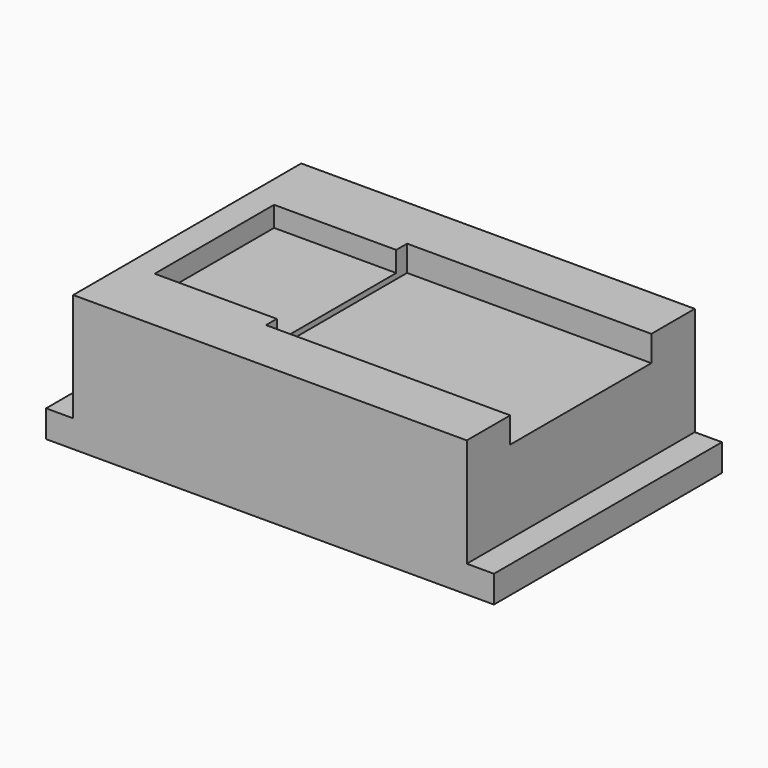
from build123d import *

# Parameters (mm, degrees)
BOX_W           = 33
BOX_H           = 21
BOX_DEPTH       = 10
SKETCH_W        = 2
SKETCH_H        = 21
POCKET_DEPTH    = 8
SKETCH001_W     = 9
SKETCH001_H     = 11
POCKET001_DEPTH = 1.5
SKETCH002_W     = 18
SKETCH002_H     = 13
POCKET002_DEPTH = 1.9


with BuildPart() as part:
    # Box → Box (new body)
    with BuildSketch(Plane.XY):
        with Locations((16.5, 10.5)):
            Rectangle(BOX_W, BOX_H)
    extrude(amount=BOX_DEPTH)

    # Sketch → Pocket (cut)
    with BuildSketch(Plane.XY.offset(10)):
        with Locations((1, 10.5)):
            Rectangle(SKETCH_W, SKETCH_H)
        with Locations((32, 10.5)):
            Rectangle(SKETCH_W, SKETCH_H)
    extrude(amount=-POCKET_DEPTH, mode=Mode.SUBTRACT)

    # Sketch001 → Pocket001 (cut)
    with BuildSketch(Plane.XY.offset(10)):
        with Locations((8.5, 10.5)):
            Rectangle(SKETCH001_W, SKETCH001_H)
    extrude(amount=-POCKET001_DEPTH, mode=Mode.SUBTRACT)

    # Sketch002 → Pocket002 (cut)
    with BuildSketch(Plane.XY.offset(10)):
        with Locations((22, 10.5)):
            Rectangle(SKETCH002_W, SKETCH002_H)
    extrude(amount=-POCKET002_DEPTH, mode=Mode.SUBTRACT)


solid = part.part
